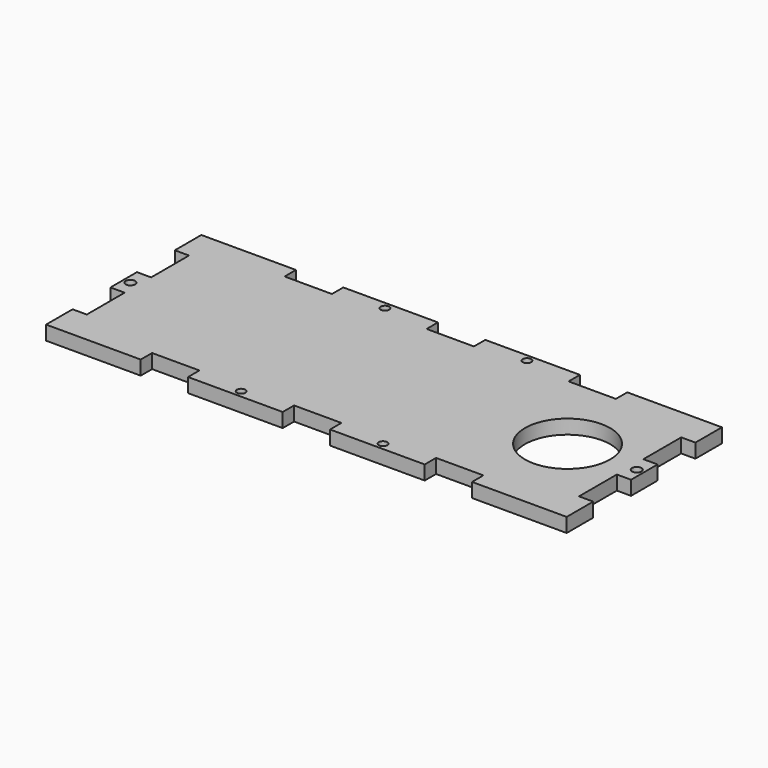
from build123d import *

# Parameters (mm, degrees)
F0_R     = 0.892586
F0_R_2   = 1
F0_R_3   = 9
F1_DEPTH = 3


with BuildPart() as f1:
    # F0 (on Top) → F1 (new body)
    with BuildSketch(Plane.XY):
        Polygon((0, 7), (0, 0), (20, 0), (20, 3), (30, 3), (30, 0), (50, 0), (50, 3), (55, 3), (60, 3), (60, 0), (80, 0), (80, 3), (90, 3), (90, 0), (110, 0), (110, 7), (107, 7), (107, 17), (110, 17), (110, 24), (107, 24), (107, 34), (110, 34), (110, 41), (90, 41), (90, 38), (80, 38), (80, 41), (60, 41), (60, 38), (55, 38), (50, 38), (50, 41), (30, 41), (30, 38), (20, 38), (20, 41), (0, 41), (0, 34), (3, 34), (3, 24), (0, 24), (0, 17), (3, 17), (3, 7), align=None)
        with Locations((40, 1.5)):
            Circle(F0_R, mode=Mode.SUBTRACT)
        with Locations((1.5, 20.387789)):
            Circle(F0_R_2, mode=Mode.SUBTRACT)
        with Locations((70, 1.5)):
            Circle(F0_R, mode=Mode.SUBTRACT)
        with Locations((108.5, 20.387789)):
            Circle(F0_R_2, mode=Mode.SUBTRACT)
        with Locations((40, 39.5)):
            Circle(F0_R, mode=Mode.SUBTRACT)
        with Locations((93.781486, 20.5)):
            Circle(F0_R_3, mode=Mode.SUBTRACT)
        with Locations((70, 39.5)):
            Circle(F0_R, mode=Mode.SUBTRACT)
    extrude(amount=F1_DEPTH)


solid = f1.part
